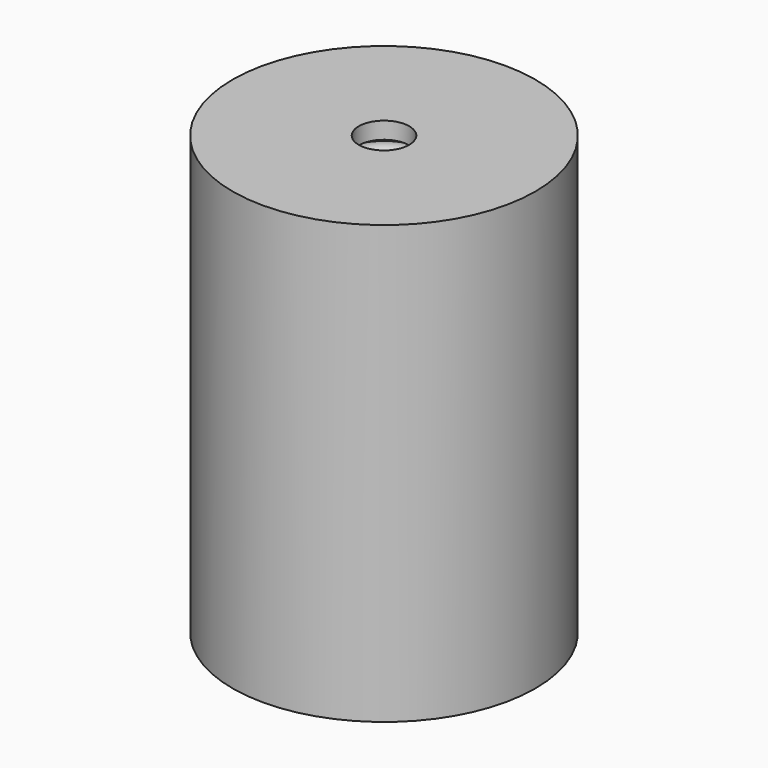
from build123d import *

# Parameters (mm, degrees)
F2_R   = 1.05
F2_W   = 2
F2_H   = 0.5
F2_W_2 = 3.5
F2_H_2 = 0.656375


with BuildPart() as f1:
    # F0 (on Front) → F1 (revolve)
    with BuildSketch(Plane.XZ):
        Polygon((9, 26), (1.5, 26), (1.5, 25), (3.5, 24), (3.5, 20), (5.5, 20), (5.5, 0), (9, 0), align=None)
    revolve(axis=Axis((0, 0, 15.449578), (0, 0, 1)))


with BuildPart() as f3:
    # F2 (on Front) → F3 (revolve)
    with BuildSketch(Plane.XZ):
        with Locations((2.164736, 23.406489)):
            Circle(F2_R)
        with Locations((2.183401, 20.702184)):
            Circle(F2_R)
        with Locations((2.466584, 22.044409)):
            Rectangle(F2_W, F2_H)
        with Locations((3.223157, 19.245571)):
            Rectangle(F2_W_2, F2_H_2)
    revolve(axis=Axis((0, 0, 15.449578), (0, 0, 1)))


with BuildPart() as f4:
    # F2 (on Front) → F4 (revolve)
    with BuildSketch(Plane.XZ):
        with Locations((2.466584, 22.044409)):
            Rectangle(F2_W, F2_H)
    revolve(axis=Axis((0, 0, 15.449578), (0, 0, 1)))


with BuildPart() as f5:
    # F2 (on Front) → F5 (revolve)
    with BuildSketch(Plane.XZ):
        with Locations((3.223157, 19.245571)):
            Rectangle(F2_W_2, F2_H_2)
    revolve(axis=Axis((0, 0, 15.449578), (0, 0, 1)))


solid = Compound([f1.part, f3.part])
